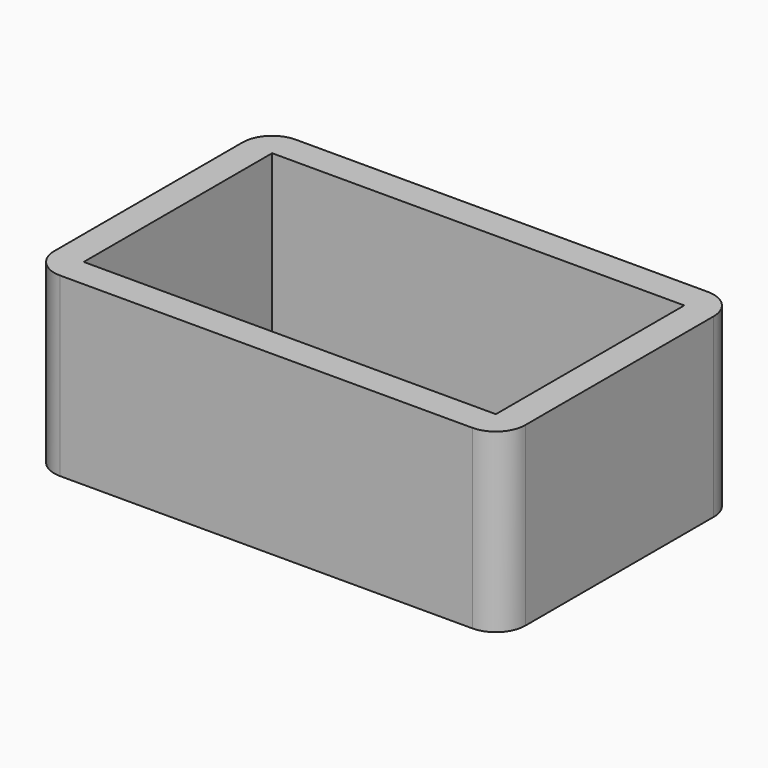
from build123d import *

# Parameters (mm, degrees)
F0_W     = 80
F0_H     = 50
F1_DEPTH = 30
F2_W     = 70
F2_H     = 40
F3_DEPTH = 30.001
F4_R     = 5


with BuildPart() as f1:
    # F0 (on Top) → F1 (new body)
    with BuildSketch(Plane.XY):
        with Locations((40, 25)):
            Rectangle(F0_W, F0_H)
    extrude(amount=F1_DEPTH)

    # F2 (on face) → F3 (cut, through all)
    with BuildSketch(Plane.XY.offset(30)):
        with Locations((40, 25)):
            Rectangle(F2_W, F2_H)
    extrude(amount=-F3_DEPTH, mode=Mode.SUBTRACT)

    # F4
    f4_edges = [f1.edges().sort_by_distance(p)[0] for p in [
        (0, 0, 15),
        (80, 0, 15),
        (0, 50, 15),
        (80, 50, 15),
    ]]
    fillet(f4_edges, radius=F4_R)


solid = f1.part
